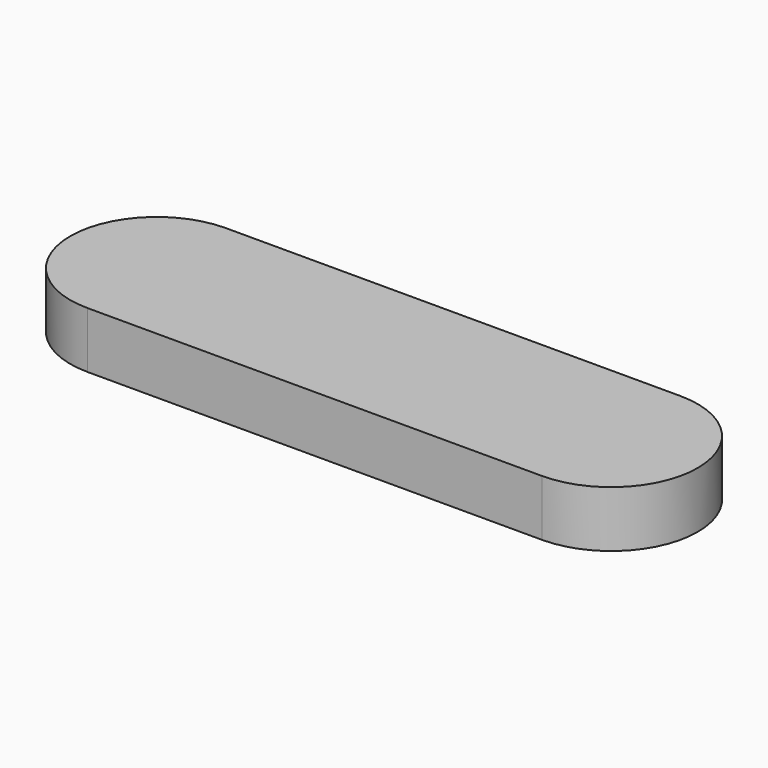
from build123d import *

# Parameters (mm, degrees)
F0_W     = 10.5
F0_H     = 4
F1_DEPTH = 1.3


with BuildPart() as f1:
    # F0 (on Top) → F1 (new body)
    with BuildSketch(Plane.XY):
        Rectangle(F0_W, F0_H)
        with BuildLine():
            Line((5.25, 2), (5.25, -2))
            ThreePointArc((5.25, -2), (7.25, 0), (5.25, 2))
        make_face()
        with BuildLine():
            ThreePointArc((-5.25, 2), (-7.25, 0), (-5.25, -2))
            Line((-5.25, -2), (-5.25, 2))
        make_face()
    extrude(amount=F1_DEPTH)


solid = f1.part
